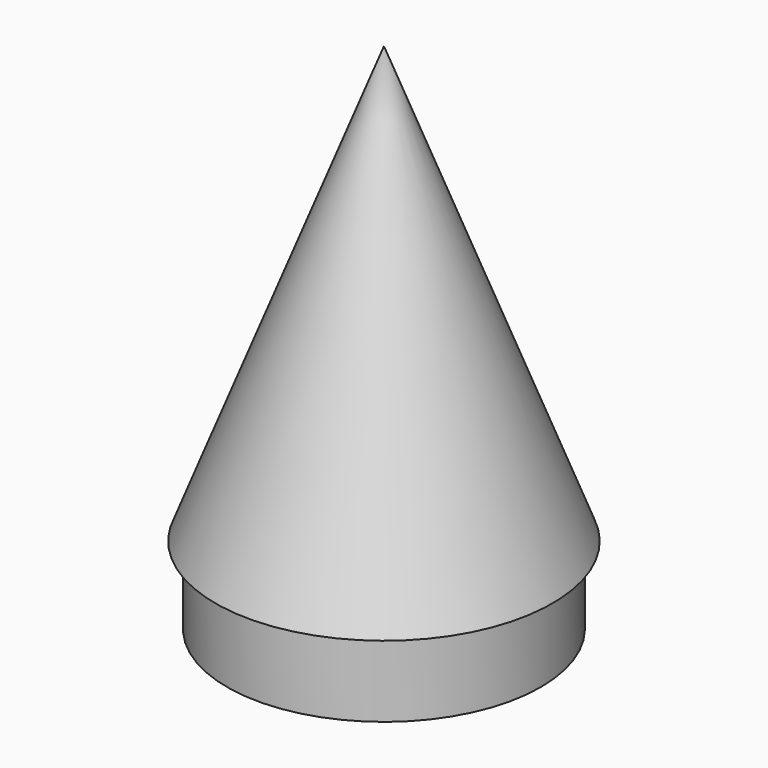
from build123d import *

# Parameters (mm, degrees)
F2_R     = 16.2
F3_DEPTH = 8
F4_R     = 9.65
F5_DEPTH = 25


with BuildPart() as f1:
    # F0 (on Front) → F1 (revolve)
    with BuildSketch(Plane.XZ):
        Polygon((-17.4, 0), (0, 0), (0, 45), align=None)
    revolve(axis=Axis((0, 0, 22.5), (0, 0, -1)))

    # F2 (on face) → F3 (join)
    with BuildSketch(Plane(origin=(0, 0, 0), x_dir=(1, 0, 0), z_dir=(0, 0, -1))):
        Circle(F2_R)
    extrude(amount=F3_DEPTH)

    # F4 (on face) → F5 (cut)
    with BuildSketch(Plane(origin=(0, 0, -8), x_dir=(1, 0, 0), z_dir=(0, 0, -1))):
        Circle(F4_R)
    extrude(amount=-F5_DEPTH, mode=Mode.SUBTRACT)


solid = f1.part
